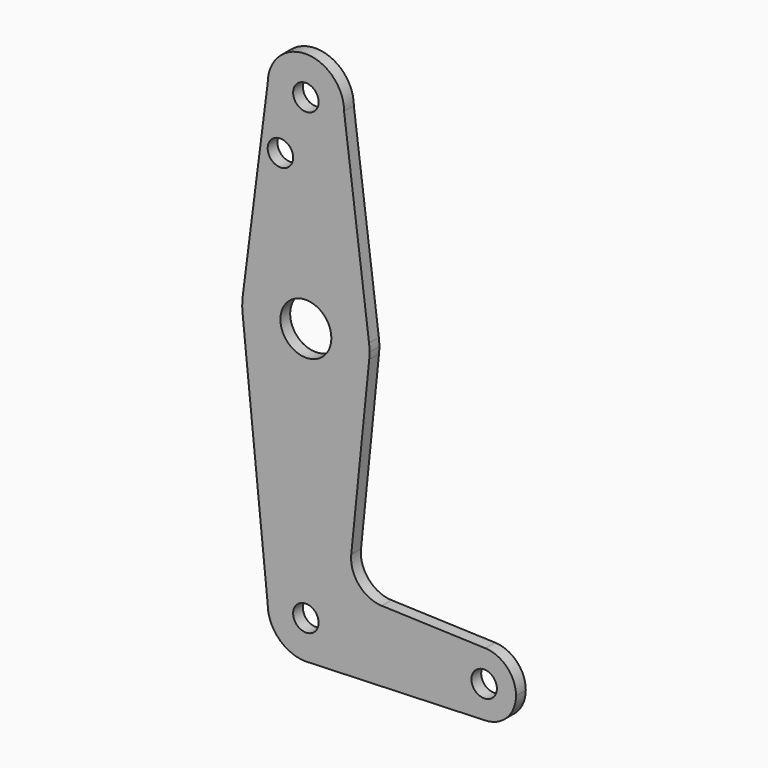
from build123d import *

# Parameters (mm, degrees)
F0_R     = 3.175
F0_R_2   = 6.35
F1_DEPTH = 3.048


with BuildPart() as f1:
    # F0 (on Front) → F1 (new body)
    with BuildSketch(Plane.XZ):
        with BuildLine():
            ThreePointArc((-9.525, 114.3), (0, 104.775), (9.525, 114.3))
            ThreePointArc((9.525, 114.3), (0, 123.825), (-9.525, 114.3))
        make_face()
        with Locations((0, 114.3)):
            Circle(F0_R, mode=Mode.SUBTRACT)
        with BuildLine():
            Line((15.747457, 65.508289), (9.525, 114.3))
            ThreePointArc((9.525, 114.3), (0, 104.775), (-9.525, 114.3))
            Line((-9.525, 114.3), (-15.747457, 65.508289))
            ThreePointArc((-15.747457, 65.508289), (0, 79.375), (15.747457, 65.508289))
        make_face()
        with Locations((-6.35, 100.0252)):
            Circle(F0_R, mode=Mode.SUBTRACT)
        with BuildLine():
            ThreePointArc((15.875, 63.5), (15.843082, 64.506168), (15.747457, 65.508289))
            ThreePointArc((15.747457, 65.508289), (0, 79.375), (-15.747457, 65.508289))
            ThreePointArc((-15.747457, 65.508289), (-15.873668, 63.705667), (-15.794203, 61.90038))
            ThreePointArc((-15.794203, 61.90038), (0, 47.625), (15.794203, 61.90038))
            ThreePointArc((15.794203, 61.90038), (15.854788, 62.699171), (15.875, 63.5))
        make_face()
        with Locations((0, 63.5)):
            Circle(F0_R_2, mode=Mode.SUBTRACT)
        with BuildLine():
            ThreePointArc((15.794203, 61.90038), (0, 47.625), (-15.794203, 61.90038))
            Line((-15.794203, 61.90038), (-9.525, 0))
            ThreePointArc((-9.525, 0), (0, 9.525), (9.525, 0))
            ThreePointArc((9.525, 0), (6.970557, -6.491299), (0.677344, -9.500886))
            Line((0.677344, -9.500886), (44.732405, -7.932475))
            ThreePointArc((44.732405, -7.932475), (36.5125, 0), (44.732405, 7.932475))
            Line((44.732405, 7.932475), (18.934103, 8.850924))
            ThreePointArc((18.934103, 8.850924), (13.224974, 11.57098), (11.307223, 17.59718))
            Line((11.307223, 17.59718), (15.794203, 61.90038))
        make_face()
        with BuildLine():
            ThreePointArc((9.525, 0), (0, 9.525), (-9.525, 0))
            ThreePointArc((-9.525, 0), (-6.735192, -6.735192), (0, -9.525))
            Line((0, -9.525), (0.677344, -9.500886))
            ThreePointArc((0.677344, -9.500886), (6.970557, -6.491299), (9.525, 0))
        make_face()
        Circle(F0_R, mode=Mode.SUBTRACT)
        with BuildLine():
            Line((0.677344, -9.500886), (0, -9.525))
            ThreePointArc((0, -9.525), (0.338886, -9.51897), (0.677344, -9.500886))
        make_face()
        with BuildLine():
            ThreePointArc((52.3875, 0), (50.161633, 5.51191), (44.732405, 7.932475))
            ThreePointArc((44.732405, 7.932475), (36.5125, 0), (44.732405, -7.932475))
            ThreePointArc((44.732405, -7.932475), (50.161633, -5.51191), (52.3875, 0))
        make_face()
        with Locations((44.45, 0)):
            Circle(F0_R, mode=Mode.SUBTRACT)
    extrude(amount=F1_DEPTH)


solid = f1.part
